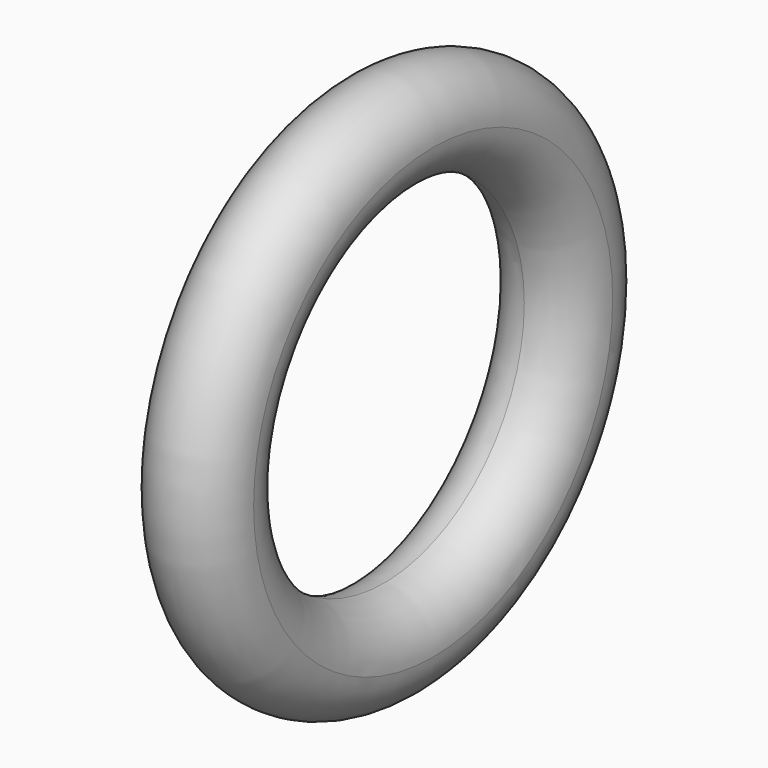
from build123d import *


with BuildPart() as f2:
    # F0 (on Top) → F2 (revolve)
    with BuildSketch(Plane.XY):
        with BuildLine():
            ThreePointArc((0, 158.75), (31.430896, 171.769104), (44.45, 203.2))
            ThreePointArc((44.45, 203.2), (-31.430896, 234.630896), (0, 158.75))
        make_face()
    revolve(axis=Axis((38.1, 0, 0), (1, 0, 0)))


solid = f2.part
